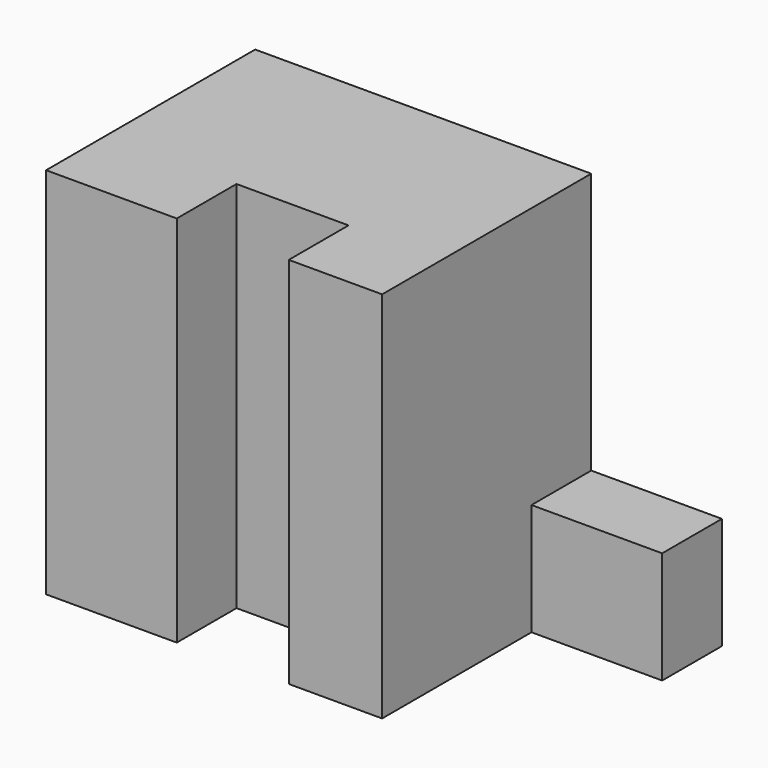
from build123d import *

# Parameters (mm, degrees)
F0_W     = 57.15
F0_H     = 63.5
F1_DEPTH = 44.45
F2_W     = 22.225
F2_H     = 19.05
F3_DEPTH = 12.7
F4_W     = 19.05
F4_H     = 12.7
F5_DEPTH = 63.501


with BuildPart() as f1:
    # F0 (on Front) → F1 (new body)
    with BuildSketch(Plane.XZ):
        Rectangle(F0_W, F0_H)
    extrude(amount=F1_DEPTH)

    # F2 (on face) → F3 (join)
    with BuildSketch(Plane(origin=(0, 0, 0), x_dir=(-1, 0, 0), z_dir=(0, 1, 0))):
        with Locations((-39.6875, -22.225)):
            Rectangle(F2_W, F2_H)
    extrude(amount=-F3_DEPTH)

    # F4 (on face) → F5 (cut, through all)
    with BuildSketch(Plane.XY.offset(31.75)):
        with Locations((3.175, -38.1)):
            Rectangle(F4_W, F4_H)
    extrude(amount=-F5_DEPTH, mode=Mode.SUBTRACT)


solid = f1.part
